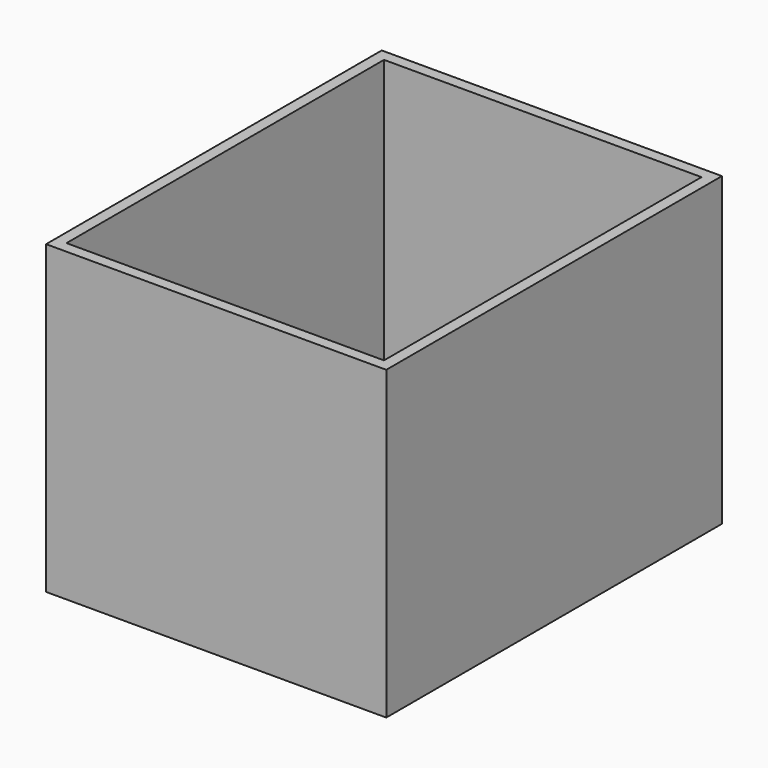
from build123d import *

# Parameters (mm, degrees)
SKETCH004_W   = 150
SKETCH004_H   = 185
PAD003_DEPTH  = 5
SKETCH005_W   = 150
SKETCH005_H   = 185
SKETCH005_W_2 = 140
SKETCH005_H_2 = 175
PAD004_DEPTH  = 130


with BuildPart() as part:
    # Sketch004 → Pad003 (new body)
    with BuildSketch(Plane.XY):
        with Locations((75, 92.5)):
            Rectangle(SKETCH004_W, SKETCH004_H)
    extrude(amount=PAD003_DEPTH)

    # Sketch005 → Pad004 (new body)
    with BuildSketch(Plane.XY.offset(5)):
        with Locations((75, 92.5)):
            Rectangle(SKETCH005_W, SKETCH005_H)
        with Locations((75, 92.5)):
            Rectangle(SKETCH005_W_2, SKETCH005_H_2, mode=Mode.SUBTRACT)
    extrude(amount=PAD004_DEPTH)


solid = part.part
